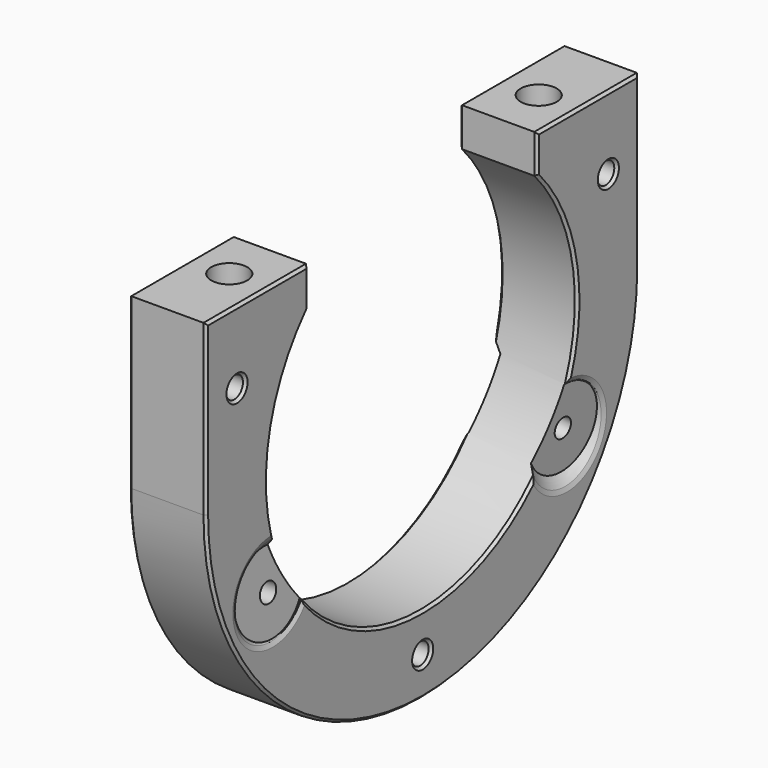
from build123d import *

# Parameters (mm, degrees)
PAD006_DEPTH       = 12
POLARPATTERN_COUNT = 3
HOLE_D             = 4.5
HOLE_DEPTH         = 8
HOLE_CBORE_D       = 5.6
HOLE_CBORE_DEPTH   = 4
HOLE_TIPS_R        = 2.25
SKETCH077_R        = 1.65
HOLE051_DEPTH      = 12.001
CHAMFER_SIZE       = 0.4


with BuildPart() as part:
    # Sketch021 → Pad006 (new body)
    with BuildSketch(Plane.YZ):
        with BuildLine():
            Line((-42, 26.25), (-22.134532, 26.25))
            Line((-22.134532, 26.25), (-22.134532, 20.25))
            ThreePointArc((-22.134532, 20.25), (0, -30), (22.134532, 20.25))
            Line((22.134532, 26.25), (22.134532, 20.25))
            Line((22.134532, 26.25), (42, 26.25))
            Line((42, 26.25), (42, 8.3e-05))
            ThreePointArc((0, -42), (29.698514, -29.698456), (42, 8.3e-05))
            ThreePointArc((-42, 8.3e-05), (-29.698514, -29.698456), (0, -42))
            Line((-42, 26.25), (-42, 8.3e-05))
        make_face()
    extrude(amount=PAD006_DEPTH)

    # Sketch066 (on DatumPlane) → Groove (revolve, cut)
    with BuildSketch(Plane(origin=(6, 28.578838, -16.5), x_dir=(1, 0, 0), z_dir=(0, -0.866025, 0.5))):
        Polygon((-6.4, 8.920251), (-7.125877, 0.623433), (7.125877, -0.623433), (7.851755, 7.673384), (5.6, 5.783937), (5.18601, 1.052013), (-4.924543, 1.936571), (-4.510553, 6.668496), align=None)
    groove = revolve(axis=Axis((6, 28.578838, -16.5), (0.996195, -0.043578, -0.075479)), mode=Mode.SUBTRACT)

    # PolarPattern: Groove ×3 about axis
    polarpattern_axis = Axis((0, 0, 0), (1, 0, 0))
    for i in range(1, POLARPATTERN_COUNT):
        add(groove.rotate(polarpattern_axis, i * 360 / POLARPATTERN_COUNT), mode=Mode.SUBTRACT)

    # Hole
    with Locations(Plane(origin=(6, 0, 26.25), x_dir=(1, 0, 0), z_dir=(0, 0, 1))):
        with Locations((0, 30), (0, -30)):
            CounterBoreHole(HOLE_D / 2, HOLE_CBORE_D / 2, HOLE_CBORE_DEPTH, depth=HOLE_DEPTH)

    # Hole tips → Hole tip 1 section 0
    with BuildSketch(Plane(origin=(6, 0, 18.25), x_dir=(1, 0, 0), z_dir=(0, 0, 1)), mode=Mode.PRIVATE) as hole_tip_1_s0:
        with Locations((0, 30)):
            Circle(HOLE_TIPS_R)
    loft([hole_tip_1_s0.sketch, Vertex(6, 30, 16.898064)], mode=Mode.SUBTRACT)

    # Hole tips → Hole tip 2 section 0
    with BuildSketch(Plane(origin=(6, 0, 18.25), x_dir=(1, 0, 0), z_dir=(0, 0, 1)), mode=Mode.PRIVATE) as hole_tip_2_s0:
        with Locations((0, -30)):
            Circle(HOLE_TIPS_R)
    loft([hole_tip_2_s0.sketch, Vertex(6, -30, 16.898064)], mode=Mode.SUBTRACT)

    # Sketch077 (on DatumPlane) → Hole051 (cut, through all)
    with BuildSketch(Plane.YZ.offset(12)):
        with Locations((0, -36)):
            Circle(SKETCH077_R)
        with Locations((-36, 15)):
            Circle(SKETCH077_R)
        with Locations((36, 15)):
            Circle(SKETCH077_R)
    extrude(amount=-HOLE051_DEPTH, mode=Mode.SUBTRACT)

    # Chamfer
    chamfer_edges = [part.edges().sort_by_distance(p)[0] for p in [
        (12, -32.067266, 26.25),
        (12, -42, 13.125041),
        (12, -22.134532, 23.25),
        (12, -29.698514, -29.698456),
        (12, -29.200057, 6.881618),
        (12, 29.698514, -29.698456),
        (12, -36.185713, -17.201179),
        (12, 42, 13.125041),
        (12, -24.085369, -20.711141),
        (12, 32.067266, 26.25),
        (12, -1.053886, -29.981483),
        (12, 22.134532, 23.25),
        (12, 32.989514, -22.737157),
        (12, 29.423782, 5.851585),
        (12, 29.979059, -10.50297),
        (12, -1.65, -36),
        (12, 34.35, 15),
        (12, -37.65, 15),
        (0, -32.067266, 26.25),
        (0, -42, 13.125041),
        (0, -22.134532, 23.25),
        (0, -29.698514, -29.698456),
        (0, -29.423782, 5.851585),
        (0, 29.698514, -29.698456),
        (0, -34.957821, -19.46153),
        (0, 42, 13.125041),
        (0, -22.743504, -22.541119),
        (0, 32.067266, 26.25),
        (0, 1.053886, -29.981483),
        (0, 22.134532, 23.25),
        (0, 34.33309, -20.543596),
        (0, 29.200057, 6.881618),
        (0, 30.892934, -8.425893),
        (0, -1.65, -36),
        (0, 34.35, 15),
        (0, -37.65, 15),
    ]]
    chamfer(chamfer_edges, length=CHAMFER_SIZE)


with BuildPart() as part_1:
    # Body022004 placement: moved
    add(part.part.moved(Location((123, 0, 835))))


solid = part_1.part
